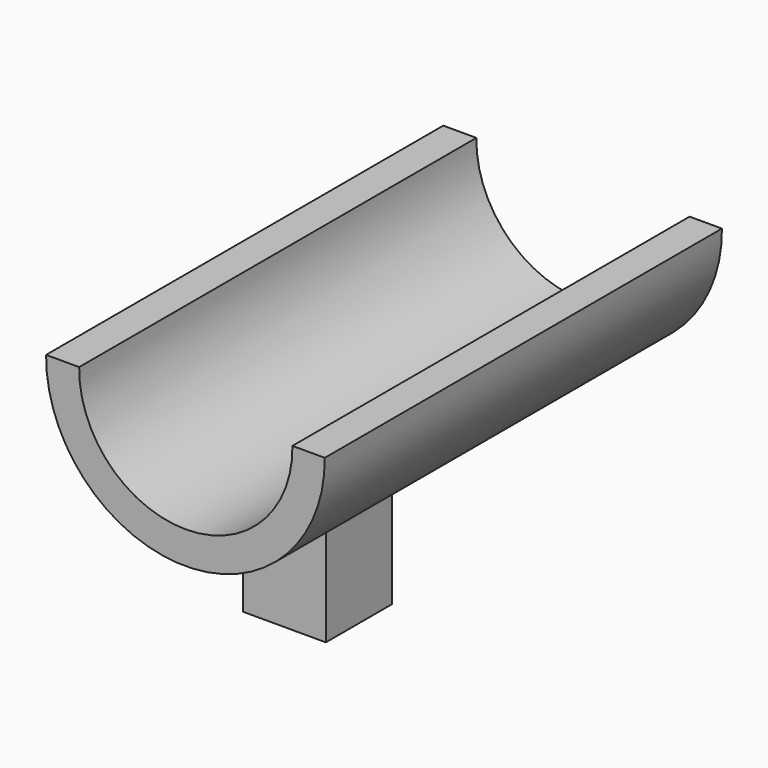
from build123d import *

# Parameters (mm, degrees)
F1_DEPTH = 76.2
F2_W     = 12.7
F2_H     = 12.7
F3_DEPTH = 23.622


with BuildPart() as f1:
    # F0 (on Front) → F1 (new body)
    with BuildSketch(Plane.XZ):
        with BuildLine():
            Line((-55.64358, 41.81907), (-60.72358, 41.81907))
            ThreePointArc((-60.72358, 41.81907), (-39.336659, 20.23352), (-17.949738, 41.81907))
            Line((-17.949738, 41.81907), (-22.914561, 41.81907))
            ThreePointArc((-22.914561, 41.81907), (-39.27907, 25.205913), (-55.64358, 41.81907))
        make_face()
    extrude(amount=F1_DEPTH)

    # F2 (on Top) → F3 (join)
    with BuildSketch(Plane.XY):
        with Locations((-44.45, -44.45)):
            Rectangle(F2_W, F2_H)
    extrude(amount=F3_DEPTH)


solid = f1.part
